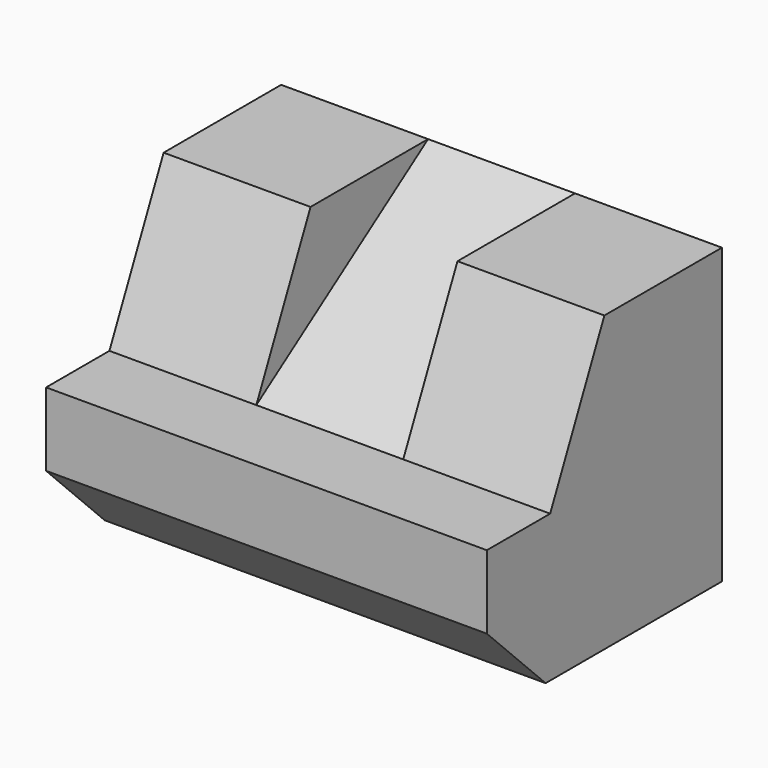
from build123d import *

# Parameters (mm, degrees)
F1_DEPTH      = 76.2
F4_DEPTH      = 12.7
F4_DEPTH_BACK = 12.7


with BuildPart() as f1:
    # F0 (on Right) → F1 (new body)
    with BuildSketch(Plane.YZ):
        Polygon((-38.1, 0), (0, 0), (0, 50.8), (-25.4, 50.8), (-37.1152978465, 25.4), (-50.8, 25.4), (-50.8, 12.7), align=None)
    extrude(amount=F1_DEPTH)

    # F3 (on mid) → F4 (cut, two sides)
    with BuildSketch(Plane.YZ.offset(38.1)) as f4_sk:
        Polygon((-25.4, 50.8), (-37.1152978465, 25.4), (0, 50.8), align=None)
    extrude(amount=-F4_DEPTH, mode=Mode.SUBTRACT)
    extrude(f4_sk.sketch, amount=F4_DEPTH_BACK, mode=Mode.SUBTRACT)


solid = f1.part
